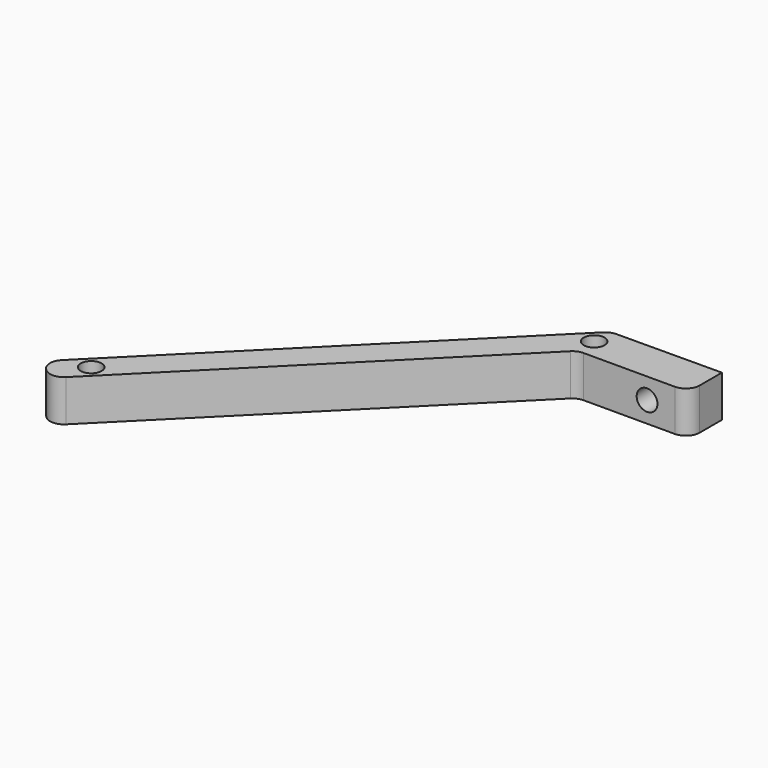
from build123d import *

# Parameters (mm, degrees)
F1_DEPTH = 6
F0_R     = 1.5
F2_DEPTH = 6
F3_R     = 1.5
F4_DEPTH = 12.5
F5_R     = 2


with BuildPart() as f1:
    # F0 (on Top) → F1 (new body)
    with BuildSketch(Plane.XY):
        with BuildLine():
            Line((-20.562754872, -1.2907197386), (-20.562754872, 4.7092802614))
            Line((-20.562754872, 4.7092802614), (-36.5625023842, 4.6193939634))
            Line((-36.5625023842, 4.6193939634), (-36.5625023842, 3.1643371124))
            ThreePointArc((-36.5625023842, 3.1643371124), (-35.0625023842, 1.6643371124), (-36.5625023842, 0.1643371124))
            Line((-36.5625023842, 0.1643371124), (-36.5625023842, -1.2907197386))
            Line((-36.5625023842, -1.2907197386), (-20.562754872, -1.2907197386))
        make_face()
    extrude(amount=-F1_DEPTH)

    # F0 (on Top) → F2 (join)
    with BuildSketch(Plane.XY):
        with BuildLine():
            Line((-36.5625023842, 3.1643371124), (-36.5625023842, 4.6193939634))
            Line((-36.5625023842, 4.6193939634), (-81.9439661063, -40.7620697588))
            Line((-81.9439661063, -40.7620697588), (-78.9889092554, -43.7171266098))
            Line((-78.9889092554, -43.7171266098), (-36.5625023842, -1.2907197386))
            Line((-36.5625023842, -1.2907197386), (-36.5625023842, 0.1643371124))
            ThreePointArc((-36.5625023842, 0.1643371124), (-38.0625023842, 1.6643371124), (-36.5625023842, 3.1643371124))
        make_face()
        with Locations((-76.8675889118, -38.6407494152)):
            Circle(F0_R, mode=Mode.SUBTRACT)
    extrude(amount=-F2_DEPTH)

    # F3 (on Front) → F4 (cut, symmetric)
    with BuildSketch(Plane.XZ):
        with Locations((-26.562754872, -3)):
            Circle(F3_R)
    extrude(amount=F4_DEPTH, both=True, mode=Mode.SUBTRACT)

    # F5
    f5_edges = [f1.edges().sort_by_distance(p)[0] for p in [
        (-36.562502, 4.619394, -3),
        (-20.562755, -1.29072, -3),
        (-36.562502, -1.29072, -3),
        (-78.988909, -43.717127, -3),
        (-81.943966, -40.76207, -3),
    ]]
    fillet(f5_edges, radius=F5_R)


solid = f1.part
